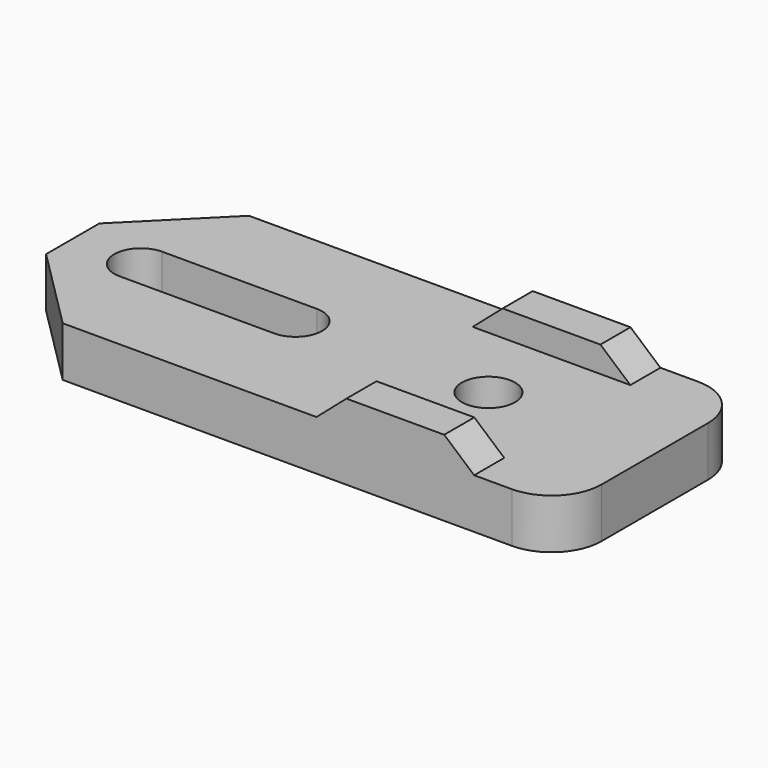
from build123d import *

# Parameters (mm, degrees)
SKETCH_R        = 1.6
PAD_DEPTH       = 3
PAD001_DEPTH    = 20
SKETCH002_W     = 9.48
SKETCH002_H     = 9.48
POCKET_DEPTH    = 1.56
CHAMFER_SIZE    = 8
FILLET_R        = 3
SKETCH003_W     = 35
SKETCH003_H     = 3
POCKET001_DEPTH = 4.561
FILLET001_R     = 3


with BuildPart() as part:
    # Sketch → Pad (new body)
    with BuildSketch(Plane.XY):
        Polygon((-10, 10), (10, 10), (10, -10), (-10, -10), (-25, -10), (-25, 10), align=None)
        Circle(SKETCH_R, mode=Mode.SUBTRACT)
        with BuildLine():
            ThreePointArc((-20.9, 1.6), (-22.5, 0), (-20.9, -1.6))
            Line((-20.9, -1.6), (-11.6, -1.6))
            ThreePointArc((-11.6, -1.6), (-10, 0), (-11.6, 1.6))
            Line((-11.6, 1.6), (-20.9, 1.6))
        make_face(mode=Mode.SUBTRACT)
    extrude(amount=PAD_DEPTH)

    # Sketch001 (on Face3 of Pad) → Pad001 (join)
    with BuildSketch(Plane.XZ.offset(10)):
        Polygon((-4.74, 3), (4.74, 3), (2.94, 4.56), (-2.94, 4.56), align=None)
    extrude(amount=-PAD001_DEPTH)

    # Sketch002 (on Face18 of Pad001) → Pocket (cut)
    with BuildSketch(Plane.XY.offset(4.56)):
        Rectangle(SKETCH002_W, SKETCH002_H)
    extrude(amount=-POCKET_DEPTH, mode=Mode.SUBTRACT)

    # Chamfer
    chamfer_edges = [part.edges().sort_by_distance(p)[0] for p in [
        (-25, 10, 1.5),
        (-25, -10, 1.5),
    ]]
    chamfer(chamfer_edges, length=CHAMFER_SIZE)

    # Fillet
    fillet_edges = [part.edges().sort_by_distance(p)[0] for p in [
        (10, 10, 1.5),
        (10, -10, 1.5),
    ]]
    fillet(fillet_edges, radius=FILLET_R)

    # Sketch003 (on Face27 of Fillet) → Pocket001 (cut, through all)
    with BuildSketch(Plane.XY.offset(4.56)):
        with Locations((-7.5, 8.5)):
            Rectangle(SKETCH003_W, SKETCH003_H)
        with Locations((-7.5, -8.5)):
            Rectangle(SKETCH003_W, SKETCH003_H)
    extrude(amount=-POCKET001_DEPTH, mode=Mode.SUBTRACT)

    # Fillet001
    fillet001_edges = [part.edges().sort_by_distance(p)[0] for p in [
        (10, -7, 1.5),
        (10, 7, 1.5),
    ]]
    fillet(fillet001_edges, radius=FILLET001_R)


solid = part.part
